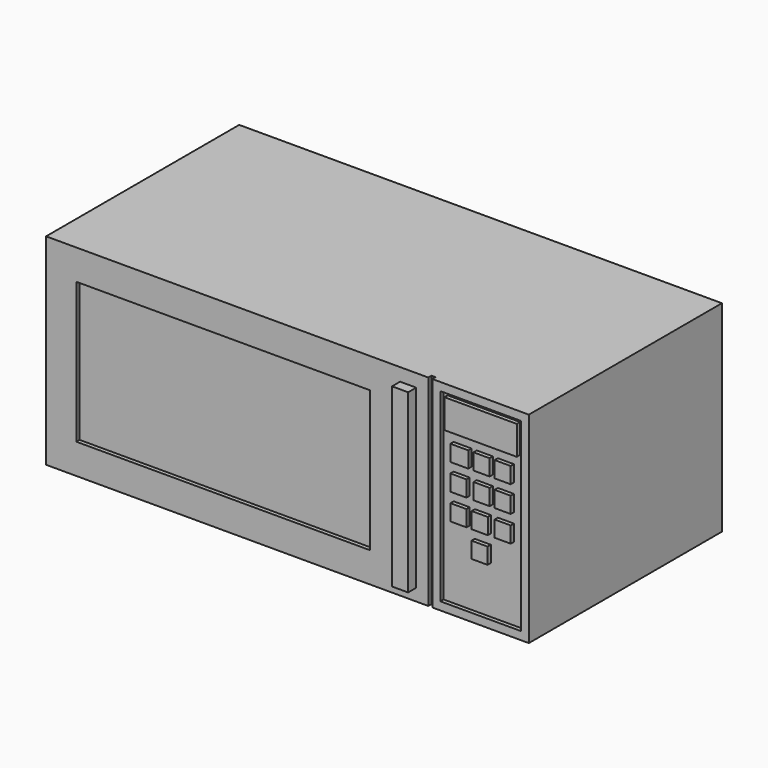
from build123d import *

# Parameters (mm, degrees)
F0_W      = 609.6
F0_H      = 254
F1_DEPTH  = 304.8
F2_W      = 101.6
F2_H      = 233.68
F3_DEPTH  = 5.08
F4_W      = 5.08
F4_H      = 254
F5_DEPTH  = 5.08
F6_W      = 91.44
F6_H      = 36.614052
F6_W_2    = 22.606
F6_H_2    = 20.32
F6_W_3    = 20.32
F7_DEPTH  = 5.08
F8_W      = 20.32
F8_H      = 222.552294
F9_DEPTH  = 12.7
F10_W     = 370.84
F10_H     = 177.8
F11_DEPTH = 5.08


with BuildPart() as f1:
    # F0 (on Front) → F1 (new body)
    with BuildSketch(Plane.XZ):
        with Locations((-17.430749, 23.316116)):
            Rectangle(F0_W, F0_H)
    extrude(amount=F1_DEPTH)

    # F2 (on face) → F3 (cut)
    with BuildSketch(Plane.XZ.offset(304.8)):
        with Locations((226.409251, 23.316116)):
            Rectangle(F2_W, F2_H)
    extrude(amount=-F3_DEPTH, mode=Mode.SUBTRACT)

    # F4 (on face) → F5 (cut)
    with BuildSketch(Plane.XZ.offset(304.8)):
        with Locations((162.909251, 23.316116)):
            Rectangle(F4_W, F4_H)
    extrude(amount=-F5_DEPTH, mode=Mode.SUBTRACT)

    # F6 (on face) → F7 (join)
    with BuildSketch(Plane.XZ.offset(299.72)):
        with Locations((226.409251, 116.76909)):
            Rectangle(F6_W, F6_H)
        with Locations((199.612251, 75.602064)):
            Rectangle(F6_W_2, F6_H_2)
        with Locations((227.679251, 75.602064)):
            Rectangle(F6_W_3, F6_H_2)
        with Locations((254.349251, 75.602064)):
            Rectangle(F6_W_3, F6_H_2)
        with Locations((198.469251, 42.582064)):
            Rectangle(F6_W_3, F6_H_2)
        with Locations((227.679251, 42.582064)):
            Rectangle(F6_W_3, F6_H_2)
        with Locations((254.349251, 42.582064)):
            Rectangle(F6_W_3, F6_H_2)
        with Locations((198.469251, 9.562064)):
            Rectangle(F6_W_3, F6_H_2)
        with Locations((225.393251, 9.562064)):
            Rectangle(F6_W_3, F6_H_2)
        with Locations((254.349251, 9.562064)):
            Rectangle(F6_W_3, F6_H_2)
        with Locations((225.139251, -23.457936)):
            Rectangle(F6_W_3, F6_H_2)
    extrude(amount=F7_DEPTH)

    # F8 (on face) → F9 (join)
    with BuildSketch(Plane.XZ.offset(304.8)):
        with Locations((134.969251, 22.832263)):
            Rectangle(F8_W, F8_H)
    extrude(amount=F9_DEPTH)

    # F10 (on face) → F11 (cut)
    with BuildSketch(Plane.XZ.offset(304.8)):
        with Locations((-98.710749, 23.316116)):
            Rectangle(F10_W, F10_H)
    extrude(amount=-F11_DEPTH, mode=Mode.SUBTRACT)


solid = f1.part
